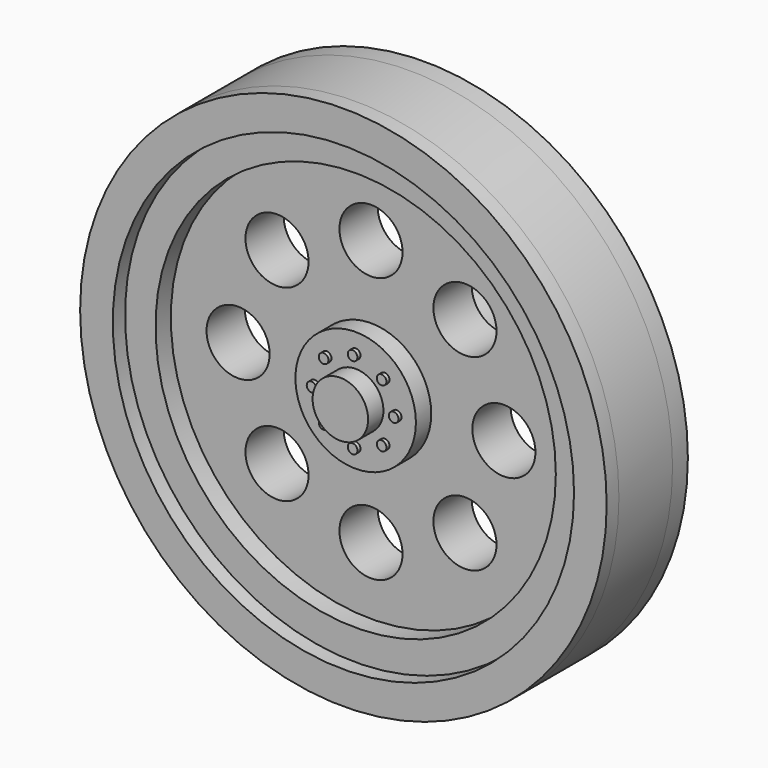
from build123d import *

# Parameters (mm, degrees)
F0_R      = 17.4625
F0_R_2    = 12.7
F0_R_3    = 2.0931181944
F0_R_4    = 5.588
F0_R_5    = 2.413
F1_DEPTH  = 3.175
F2_R      = 3.9963045726
F2_R_2    = 1.9205832971
F3_DEPTH  = 1.27
F4_R      = 1.8414609102
F5_DEPTH  = 1.27
F6_R      = 3.175
F7_DEPTH  = 7.62
F8_R      = 0.3211313055
F9_DEPTH  = 0.254
F10_R     = 17.4625
F10_R_2   = 13.2761533165
F11_DEPTH = 1.27
F12_R     = 17.4625
F12_R_2   = 13.1551445167
F13_DEPTH = 1.27
F14_R     = 17.4625
F14_R_2   = 15.2967108996
F15_DEPTH = 1.016


with BuildPart() as f1:
    # F0 (on Front) → F1 (new body)
    with BuildSketch(Plane.XZ):
        Circle(F0_R)
        Circle(F0_R_2, mode=Mode.SUBTRACT)
        Circle(F0_R_2)
        with Locations((-6.2330407914, -6.2330407914)):
            Circle(F0_R_3, mode=Mode.SUBTRACT)
        with Locations((0, -8.8148508221)):
            Circle(F0_R_3, mode=Mode.SUBTRACT)
        with Locations((6.2330407914, -6.2330407914)):
            Circle(F0_R_3, mode=Mode.SUBTRACT)
        with Locations((-8.8148508221, 0)):
            Circle(F0_R_3, mode=Mode.SUBTRACT)
        with Locations((-6.2330407914, 6.2330407914)):
            Circle(F0_R_3, mode=Mode.SUBTRACT)
        Circle(F0_R_4, mode=Mode.SUBTRACT)
        with Locations((6.2330407914, 6.2330407914)):
            Circle(F0_R_3, mode=Mode.SUBTRACT)
        with Locations((8.8148508221, 0)):
            Circle(F0_R_3, mode=Mode.SUBTRACT)
        with Locations((0, 8.8148508221)):
            Circle(F0_R_3, mode=Mode.SUBTRACT)
        Circle(F0_R_4)
        Circle(F0_R_5, mode=Mode.SUBTRACT)
        Circle(F0_R_5)
    extrude(amount=F1_DEPTH)

    # F2 (on face) → F3 (join)
    with BuildSketch(Plane.XZ.offset(3.175)):
        Circle(F2_R)
        Circle(F2_R_2, mode=Mode.SUBTRACT)
        Circle(F2_R_2)
    extrude(amount=F3_DEPTH)

    # F4 (on face) → F5 (join)
    with BuildSketch(Plane.XZ.offset(4.445)):
        Circle(F4_R)
    extrude(amount=F5_DEPTH)

    # F6 (on face) → F7 (join)
    with BuildSketch(Plane(origin=(0, 0, 0), x_dir=(-1, 0, 0), z_dir=(0, 1, 0))):
        Circle(F6_R)
    extrude(amount=F7_DEPTH)

    # F8 (on face) → F9 (join)
    with BuildSketch(Plane.XZ.offset(4.445)):
        with Locations((0, 2.7205995284)):
            Circle(F8_R)
        with Locations((-1.9237543754, 1.9237543754)):
            Circle(F8_R)
        with Locations((-2.7205995284, 0)):
            Circle(F8_R)
        with Locations((-1.9237543754, -1.9237543754)):
            Circle(F8_R)
        with Locations((0, -2.7205995284)):
            Circle(F8_R)
        with Locations((1.9237543754, -1.9237543754)):
            Circle(F8_R)
        with Locations((2.7205995284, 0)):
            Circle(F8_R)
        with Locations((1.9237543754, 1.9237543754)):
            Circle(F8_R)
    extrude(amount=F9_DEPTH)

    # F10 (on face) → F11 (join)
    with BuildSketch(Plane.XZ.offset(3.175)):
        Circle(F10_R)
        Circle(F10_R_2, mode=Mode.SUBTRACT)
    extrude(amount=F11_DEPTH)

    # F12 (on face) → F13 (join)
    with BuildSketch(Plane(origin=(0, 0, 0), x_dir=(-1, 0, 0), z_dir=(0, 1, 0))):
        Circle(F12_R)
        Circle(F12_R_2, mode=Mode.SUBTRACT)
    extrude(amount=F13_DEPTH)

    # F14 (on face) → F15 (join)
    with BuildSketch(Plane.XZ.offset(4.445)):
        Circle(F14_R)
        Circle(F14_R_2, mode=Mode.SUBTRACT)
    extrude(amount=F15_DEPTH)


solid = f1.part
